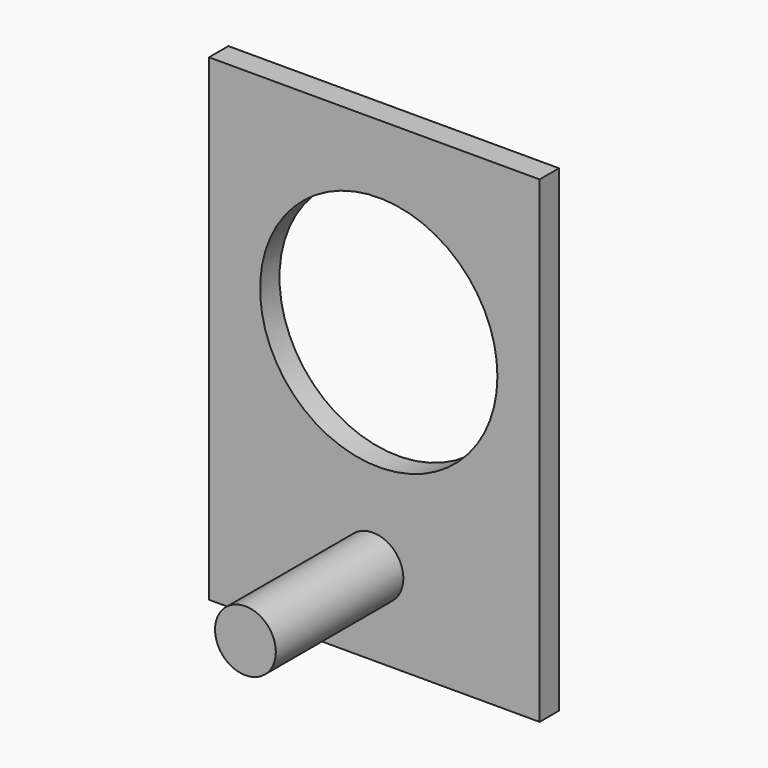
from build123d import *

# Parameters (mm, degrees)
F0_R     = 4.138863
F1_DEPTH = 25
F0_W     = 45
F0_H     = 65
F0_R_2   = 16.150293
F2_DEPTH = 3.3


with BuildPart() as f1:
    # F0 (on Front) → F1 (new body)
    with BuildSketch(Plane.XZ):
        with Locations((-11.499787, -17.317273)):
            Circle(F0_R)
    extrude(amount=F1_DEPTH)

    # F0 (on Front) → F2 (join)
    with BuildSketch(Plane.XZ):
        with Locations((-11.317263, 4.01345)):
            Rectangle(F0_W, F0_H)
        with Locations((-11.499787, -17.317273)):
            Circle(F0_R, mode=Mode.SUBTRACT)
        with Locations((-10.711884, 11.065023)):
            Circle(F0_R_2, mode=Mode.SUBTRACT)
    extrude(amount=F2_DEPTH)


solid = f1.part
